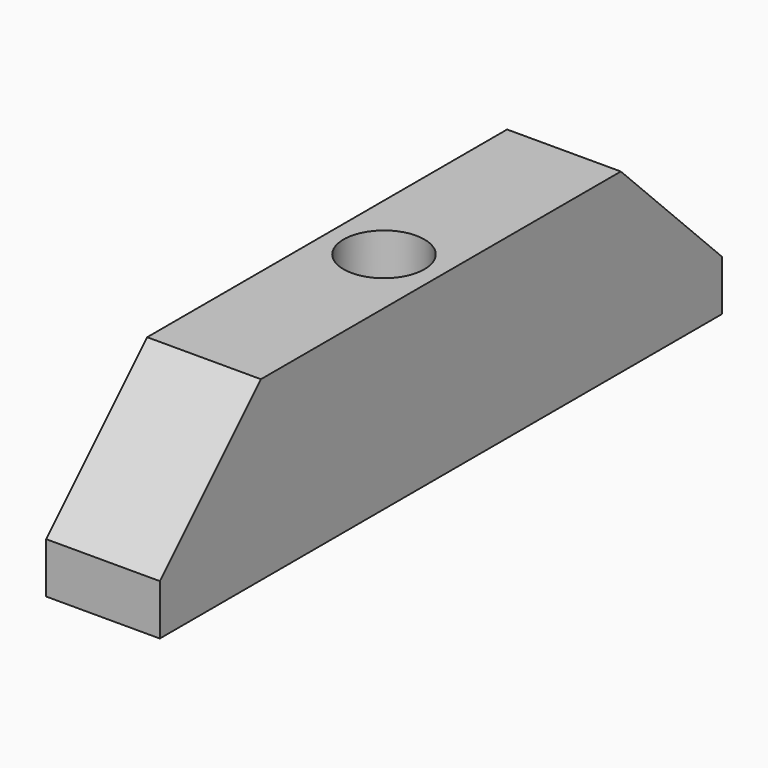
from build123d import *

# Parameters (mm, degrees)
F0_W     = 4.5
F0_H     = 27.8
F0_R     = 1.6
F1_DEPTH = 7
F2_SIZE  = 5


with BuildPart() as f1:
    # F0 (on Top) → F1 (new body)
    with BuildSketch(Plane.XY):
        Rectangle(F0_W, F0_H)
        Circle(F0_R, mode=Mode.SUBTRACT)
    extrude(amount=F1_DEPTH)

    # F2
    f2_edges = [f1.edges().sort_by_distance(p)[0] for p in [
        (0, -13.9, 7),
        (0, 13.9, 7),
    ]]
    chamfer(f2_edges, length=F2_SIZE)


solid = f1.part
